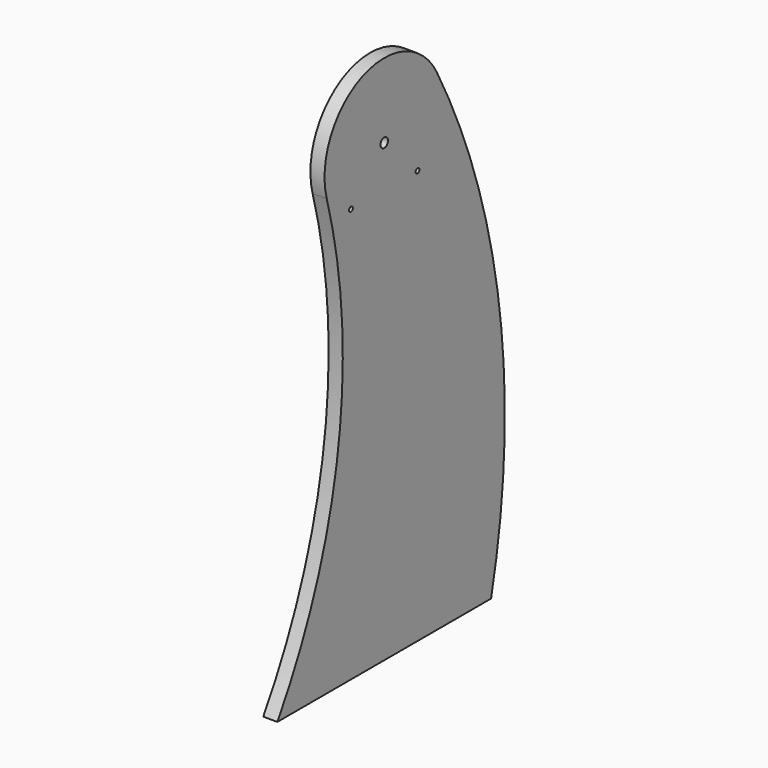
from build123d import *

# Parameters (mm, degrees)
SKETCH_R     = 6
PAD_DEPTH    = 9
SKETCH001_R  = 3
POCKET_DEPTH = 18.001


with BuildPart() as part:
    # Sketch → Pad (new body, symmetric)
    with BuildSketch(Plane.YZ):
        with BuildLine():
            ThreePointArc((83.569101, 625.179701), (-35.530366, 668.105579), (-91.532178, 554.56655))
            ThreePointArc((-170, 0), (-72.883506, 269.093239), (-91.532178, 554.56655))
            Line((-170, 0), (170, 0))
            ThreePointArc((170, 0), (183.382066, 320.41444), (83.569101, 625.179701))
        make_face()
        with Locations((0, 580)):
            Circle(SKETCH_R, mode=Mode.SUBTRACT)
    extrude(amount=PAD_DEPTH, both=True)

    # Sketch001 (on Face7 of Pad) → Pocket (cut, through all)
    with BuildSketch(Plane.YZ.offset(9)):
        with Locations((-53.033009, 526.966991)):
            Circle(SKETCH001_R)
        with Locations((53.033009, 526.966991)):
            Circle(SKETCH001_R)
    extrude(amount=-POCKET_DEPTH, mode=Mode.SUBTRACT)


solid = part.part
